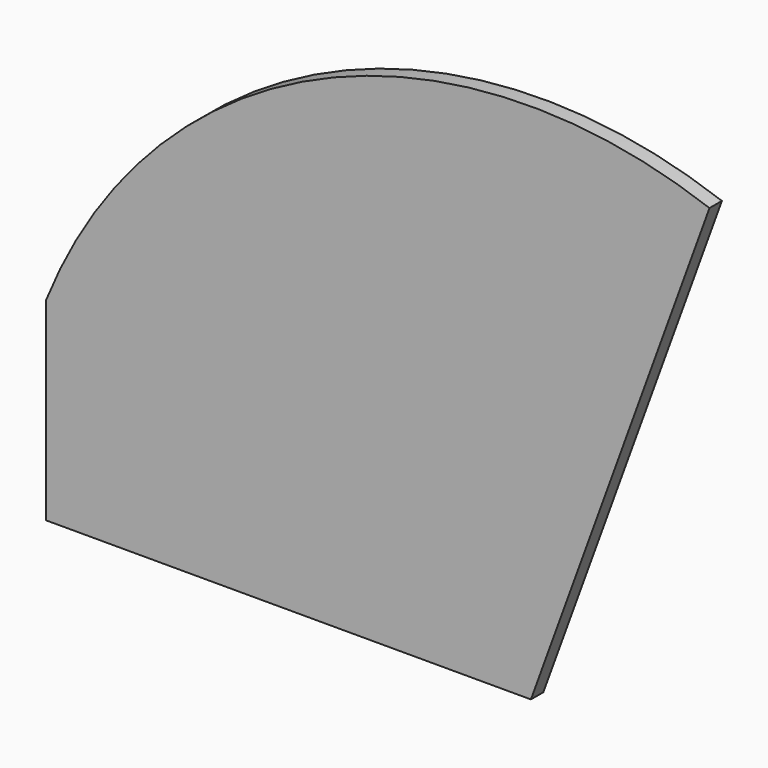
from build123d import *

# Parameters (mm, degrees)
F1_DEPTH = 8


with BuildPart() as f1:
    # F0 (on Front) → F1 (new body)
    with BuildSketch(Plane.XZ):
        with BuildLine():
            Line((0, 100), (0, 0))
            Line((0, 0), (250, 0))
            Line((250, 0), (342.091742, 253.019982))
            ThreePointArc((342.091742, 253.019982), (140.056682, 245.789477), (0, 100))
        make_face()
    extrude(amount=-F1_DEPTH)


solid = f1.part
